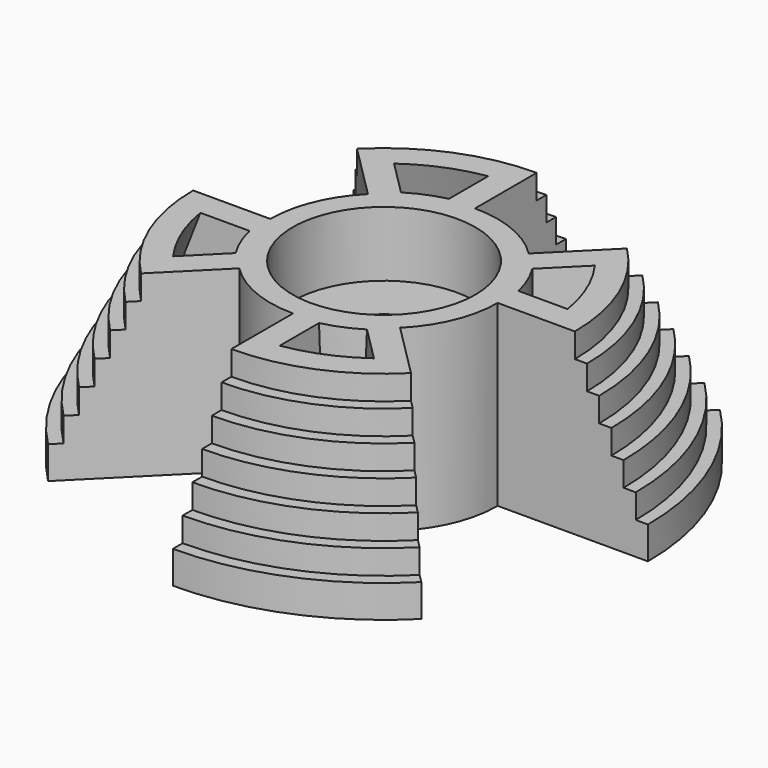
from build123d import *

# Parameters (mm, degrees)
F0_R            = 32.5
F0_R_2          = 31
F1_DEPTH        = 4
F0_R_3          = 29.5
F2_DEPTH        = 7
F0_R_4          = 28
F3_DEPTH        = 10
F0_R_5          = 26.5
F4_DEPTH        = 13
F0_R_6          = 25
F5_DEPTH        = 16
F0_R_7          = 23.5
F6_DEPTH        = 19
F7_DEPTH        = 22
F9_DEPTH        = 25
F11_D           = 8.6
F11_CBORE_D     = 22.5
F11_CBORE_DEPTH = 8
F12_R           = 11.25
F12_R_2         = 4.3
F13_DEPTH       = 8


with BuildPart() as f1:
    # F0 (on Top) → F1 (new body)
    with BuildSketch(Plane.XY):
        Circle(F0_R)
        Circle(F0_R_2, mode=Mode.SUBTRACT)
    extrude(amount=F1_DEPTH)

    # F0 (on Top) → F2 (join)
    with BuildSketch(Plane.XY):
        Circle(F0_R_2)
        Circle(F0_R_3, mode=Mode.SUBTRACT)
    extrude(amount=F2_DEPTH)

    # F0 (on Top) → F3 (join)
    with BuildSketch(Plane.XY):
        Circle(F0_R_3)
        Circle(F0_R_4, mode=Mode.SUBTRACT)
    extrude(amount=F3_DEPTH)

    # F0 (on Top) → F4 (join)
    with BuildSketch(Plane.XY):
        Circle(F0_R_4)
        Circle(F0_R_5, mode=Mode.SUBTRACT)
    extrude(amount=F4_DEPTH)

    # F0 (on Top) → F5 (join)
    with BuildSketch(Plane.XY):
        Circle(F0_R_5)
        Circle(F0_R_6, mode=Mode.SUBTRACT)
    extrude(amount=F5_DEPTH)

    # F0 (on Top) → F6 (join)
    with BuildSketch(Plane.XY):
        Circle(F0_R_6)
        Circle(F0_R_7, mode=Mode.SUBTRACT)
    extrude(amount=F6_DEPTH)

    # F0 (on Top) → F7 (join)
    with BuildSketch(Plane.XY):
        Circle(F0_R_7)
    extrude(amount=F7_DEPTH)

    # F8 (on face) → F9 (cut)
    with BuildSketch(Plane.XY.offset(22)):
        with BuildLine():
            ThreePointArc((-23.5, 0), (-21.711169014, 8.9930606606), (-16.6170093579, 16.6170093579))
            Line((-16.6170093579, 16.6170093579), (-25.4558441227, 25.4558441227))
            ThreePointArc((-25.4558441227, 25.4558441227), (-33.2596631704, 13.7766035651), (-36, 0))
            Line((-36, 0), (-23.5, 0))
        make_face()
        with BuildLine():
            ThreePointArc((-14, 0), (-12.9343134552, 5.3575680531), (-9.8994949366, 9.8994949366))
            Line((-9.8994949366, 9.8994949366), (-16.6170093579, 16.6170093579))
            ThreePointArc((-16.6170093579, 16.6170093579), (-21.711169014, 8.9930606606), (-23.5, 0))
            Line((-23.5, 0), (-14, 0))
        make_face()
        with BuildLine():
            ThreePointArc((0, 14), (5.3575680531, 12.9343134552), (9.8994949366, 9.8994949366))
            Line((9.8994949366, 9.8994949366), (16.6170093579, 16.6170093579))
            ThreePointArc((16.6170093579, 16.6170093579), (8.9930606606, 21.711169014), (0, 23.5))
            Line((0, 23.5), (0, 14))
        make_face()
        with BuildLine():
            ThreePointArc((0, 23.5), (8.9930606606, 21.711169014), (16.6170093579, 16.6170093579))
            Line((16.6170093579, 16.6170093579), (25.4558441227, 25.4558441227))
            ThreePointArc((25.4558441227, 25.4558441227), (13.7766035651, 33.2596631704), (0, 36))
            Line((0, 36), (0, 23.5))
        make_face()
        with BuildLine():
            Line((23.5, 0), (14, 0))
            ThreePointArc((14, 0), (12.9343134552, -5.3575680531), (9.8994949366, -9.8994949366))
            Line((9.8994949366, -9.8994949366), (16.6170093579, -16.6170093579))
            ThreePointArc((16.6170093579, -16.6170093579), (21.711169014, -8.9930606606), (23.5, 0))
        make_face()
        with BuildLine():
            Line((36, 0), (23.5, 0))
            ThreePointArc((23.5, 0), (21.711169014, -8.9930606606), (16.6170093579, -16.6170093579))
            Line((16.6170093579, -16.6170093579), (25.4558441227, -25.4558441227))
            ThreePointArc((25.4558441227, -25.4558441227), (33.2596631704, -13.7766035651), (36, 0))
        make_face()
        with BuildLine():
            Line((0, -23.5), (0, -14))
            ThreePointArc((0, -14), (-5.3575680531, -12.9343134552), (-9.8994949366, -9.8994949366))
            Line((-9.8994949366, -9.8994949366), (-16.6170093579, -16.6170093579))
            ThreePointArc((-16.6170093579, -16.6170093579), (-8.9930606606, -21.711169014), (0, -23.5))
        make_face()
        with BuildLine():
            Line((0, -36), (0, -23.5))
            ThreePointArc((0, -23.5), (-8.9930606606, -21.711169014), (-16.6170093579, -16.6170093579))
            Line((-16.6170093579, -16.6170093579), (-25.4558441227, -25.4558441227))
            ThreePointArc((-25.4558441227, -25.4558441227), (-13.7766035651, -33.2596631704), (0, -36))
        make_face()
    extrude(amount=-F9_DEPTH, mode=Mode.SUBTRACT)

    # F11 (through all)
    with Locations(Plane.XY.offset(22)):
        with Locations((0, 0)):
            CounterBoreHole(F11_D / 2, F11_CBORE_D / 2, F11_CBORE_DEPTH)

    # F12 (on face) → F13 (cut)
    with BuildSketch(Plane(origin=(0, 0, 0), x_dir=(1, 0, 0), z_dir=(0, 0, -1))):
        Circle(F12_R)
        Circle(F12_R_2, mode=Mode.SUBTRACT)
    extrude(amount=-F13_DEPTH, mode=Mode.SUBTRACT)

    # F14 (on face) → F16 section 0
    with BuildSketch(Plane(origin=(0, 0, 0), x_dir=(1, 0, 0), z_dir=(0, 0, -1))):
        with BuildLine():
            ThreePointArc((4, 14), (5.5719548808, 13.4518890423), (7.0710678119, 12.7279220614))
            Line((7.0710678119, 12.7279220614), (17.1246428145, 22.781497064))
            ThreePointArc((17.1246428145, 22.781497064), (10.9064778224, 26.3305666766), (4, 28.217902119))
            Line((4, 28.217902119), (4, 14))
        make_face()
    # F15 (on face) → F16 section 1
    with BuildSketch(Plane.XY.offset(22)):
        with BuildLine():
            Line((3.2, -14), (3.2, -20.0461966467))
            ThreePointArc((3.2, -20.0461966467), (7.768473677, -18.75475451), (11.9120598861, -16.4375432857))
            Line((11.9120598861, -16.4375432857), (7.6367532368, -12.1622366364))
            ThreePointArc((7.6367532368, -12.1622366364), (5.4957391426, -13.2678879734), (3.2, -14))
        make_face()
    loft(mode=Mode.SUBTRACT)

    # F14 (on face) → F17 section 0
    with BuildSketch(Plane(origin=(0, 0, 0), x_dir=(1, 0, 0), z_dir=(0, 0, -1))):
        with BuildLine():
            ThreePointArc((14, -4), (13.4518890423, -5.5719548808), (12.7279220614, -7.0710678119))
            Line((12.7279220614, -7.0710678119), (22.781497064, -17.1246428145))
            ThreePointArc((22.781497064, -17.1246428145), (26.3305666766, -10.9064778224), (28.217902119, -4))
            Line((28.217902119, -4), (14, -4))
        make_face()
    # F15 (on face) → F17 section 1
    with BuildSketch(Plane.XY.offset(22)):
        with BuildLine():
            Line((14, 3.2), (20.0461966467, 3.2))
            ThreePointArc((20.0461966467, 3.2), (18.75475451, 7.768473677), (16.4375432857, 11.9120598861))
            Line((16.4375432857, 11.9120598861), (12.1622366364, 7.6367532368))
            ThreePointArc((12.1622366364, 7.6367532368), (13.2678879734, 5.4957391426), (14, 3.2))
        make_face()
    loft(mode=Mode.SUBTRACT)

    # F14 (on face) → F18 section 0
    with BuildSketch(Plane(origin=(0, 0, 0), x_dir=(1, 0, 0), z_dir=(0, 0, -1))):
        with BuildLine():
            ThreePointArc((-4, -14), (-5.5719548808, -13.4518890423), (-7.0710678119, -12.7279220614))
            Line((-7.0710678119, -12.7279220614), (-17.1246428145, -22.781497064))
            ThreePointArc((-17.1246428145, -22.781497064), (-10.9064778224, -26.3305666766), (-4, -28.217902119))
            Line((-4, -28.217902119), (-4, -14))
        make_face()
    # F15 (on face) → F18 section 1
    with BuildSketch(Plane.XY.offset(22)):
        with BuildLine():
            Line((-3.2, 14), (-3.2, 20.0461966467))
            ThreePointArc((-3.2, 20.0461966467), (-7.768473677, 18.75475451), (-11.9120598861, 16.4375432857))
            Line((-11.9120598861, 16.4375432857), (-7.6367532368, 12.1622366364))
            ThreePointArc((-7.6367532368, 12.1622366364), (-5.4957391426, 13.2678879734), (-3.2, 14))
        make_face()
    loft(mode=Mode.SUBTRACT)

    # F14 (on face) → F19 section 0
    with BuildSketch(Plane(origin=(0, 0, 0), x_dir=(1, 0, 0), z_dir=(0, 0, -1))):
        with BuildLine():
            ThreePointArc((-14, 4), (-13.4518890423, 5.5719548808), (-12.7279220614, 7.0710678119))
            Line((-12.7279220614, 7.0710678119), (-22.781497064, 17.1246428145))
            ThreePointArc((-22.781497064, 17.1246428145), (-26.3305666766, 10.9064778224), (-28.217902119, 4))
            Line((-28.217902119, 4), (-14, 4))
        make_face()
    # F15 (on face) → F19 section 1
    with BuildSketch(Plane.XY.offset(22)):
        with BuildLine():
            Line((-16.4375432857, -11.9120598861), (-12.1622366364, -7.6367532368))
            ThreePointArc((-12.1622366364, -7.6367532368), (-13.2678879734, -5.4957391426), (-14, -3.2))
            Line((-14, -3.2), (-20.0461966467, -3.2))
            ThreePointArc((-20.0461966467, -3.2), (-18.75475451, -7.768473677), (-16.4375432857, -11.9120598861))
        make_face()
    loft(mode=Mode.SUBTRACT)


solid = f1.part
